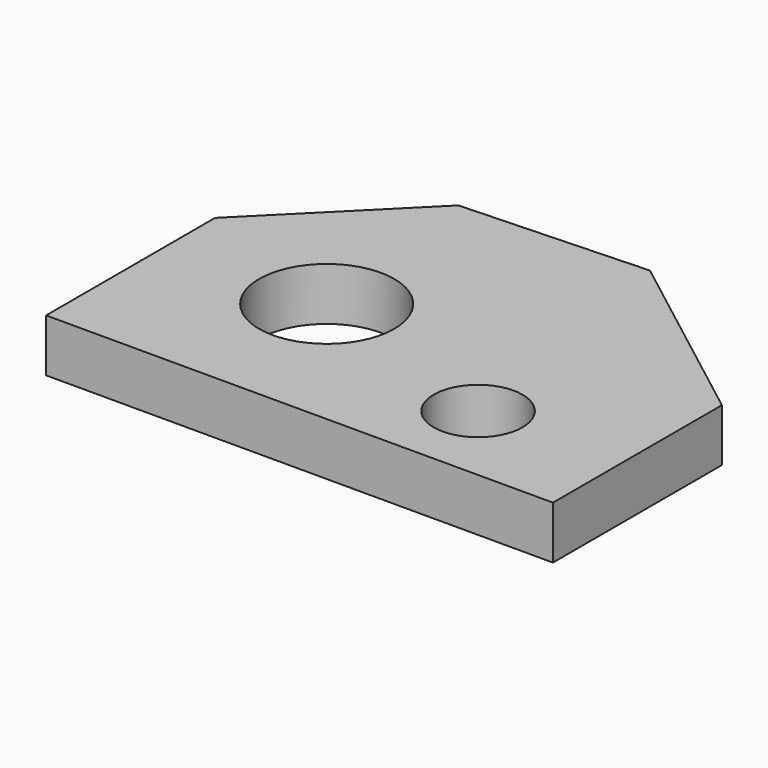
from build123d import *

# Parameters (mm, degrees)
F0_R     = 32
F0_R_2   = 21
F1_DEPTH = 25


with BuildPart() as f1:
    # F0 (on Top) → F1 (new body)
    with BuildSketch(Plane.XY):
        Polygon((-55.712195, 97.589945), (-119.712195, 33.589945), (-119.712195, -66.410055), (120.287805, -66.410055), (120.287805, 33.589945), (32.217825, 101.098714), align=None)
        with Locations((-44.444703, 5.589945)):
            Circle(F0_R, mode=Mode.SUBTRACT)
        with Locations((52.833643, -26.410055)):
            Circle(F0_R_2, mode=Mode.SUBTRACT)
    extrude(amount=F1_DEPTH)


solid = f1.part
